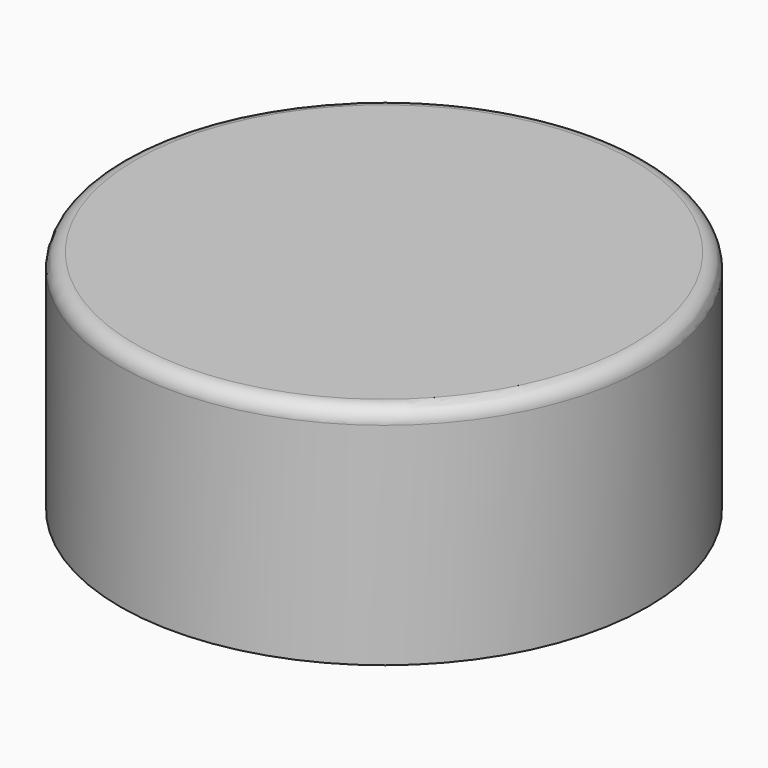
from build123d import *

# Parameters (mm, degrees)
F2_R     = 2
F4_DEPTH = 50


with BuildPart() as f1:
    # F0 (on Front) → F1 (revolve)
    with BuildSketch(Plane.XZ):
        Polygon((35, 14.7952197132), (0, 14.7952197132), (0, 11.7952197132), (33, 13.7952197132), (15, -15.2047802868), (35, -15.2047802868), align=None)
    revolve(axis=Axis((0, 0, 13.2952197132), (0, 0, -1)))

    # F2
    f2_edges = [f1.edges().sort_by_distance(p)[0] for p in [
        (-35, 0, 14.79522),
    ]]
    fillet(f2_edges, radius=F2_R)

    # F3 (on Front) → F4 (cut)
    with BuildSketch(Plane.XZ):
        with BuildLine():
            Line((-2.5, -12.7047802868), (2.5, -12.7047802868))
            ThreePointArc((2.5, -12.7047802868), (0, -10.2047802868), (-2.5, -12.7047802868))
        make_face()
        with BuildLine():
            Line((2.5, -17.7047802868), (2.5, -12.7047802868))
            ThreePointArc((2.5, -12.7047802868), (0, -15.2047802868), (-2.5, -12.7047802868))
            Line((-2.5, -12.7047802868), (-2.5, -17.7047802868))
            Line((-2.5, -17.7047802868), (2.5, -17.7047802868))
        make_face()
        with BuildLine():
            ThreePointArc((-2.5, -12.7047802868), (0, -15.2047802868), (2.5, -12.7047802868))
            Line((2.5, -12.7047802868), (-2.5, -12.7047802868))
        make_face()
    extrude(amount=-F4_DEPTH, mode=Mode.SUBTRACT)


solid = f1.part
